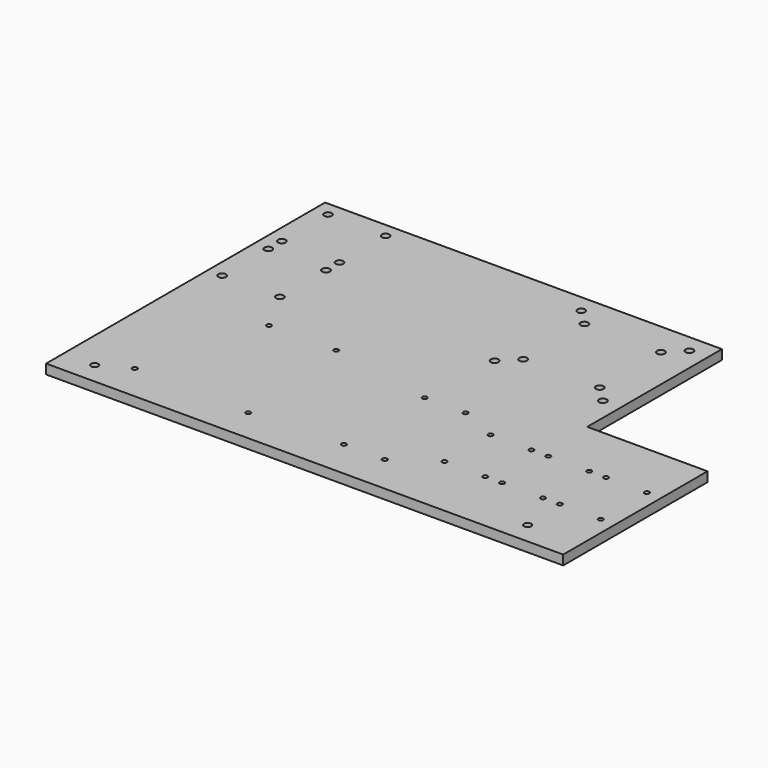
from build123d import *

# Parameters (mm, degrees)
F0_W     = 215
F0_H     = 145
F1_DEPTH = 4
F2_R     = 1.5
F3_DEPTH = 4.001
F4_W     = 50
F4_H     = 70
F5_DEPTH = 4.001
F6_R     = 1.6
F6_R_2   = 1
F7_DEPTH = 4.001


with BuildPart() as f1:
    # F0 (on Top) → F1 (new body)
    with BuildSketch(Plane.XY):
        Rectangle(F0_W, F0_H)
    extrude(amount=F1_DEPTH)

    # F2 (on face) → F3 (cut, through all)
    with BuildSketch(Plane.XY.offset(4)):
        with Locations((-94.5, -63.5)):
            Circle(F2_R)
        with Locations((85.5, -63.5)):
            Circle(F2_R)
    extrude(amount=-F3_DEPTH, mode=Mode.SUBTRACT)

    # F4 (on face) → F5 (cut, through all)
    with BuildSketch(Plane.XY.offset(4)):
        with Locations((82.5, 37.5)):
            Rectangle(F4_W, F4_H)
    extrude(amount=-F5_DEPTH, mode=Mode.SUBTRACT)

    # F6 (on face) → F7 (cut, through all)
    with BuildSketch(Plane.XY.offset(4)):
        with Locations((-101.5, 66.5)):
            Circle(F6_R)
        with Locations((-77.5, 66.5)):
            Circle(F6_R)
        with Locations((-77.5, 42.5)):
            Circle(F6_R)
        with Locations((-101.5, 42.5)):
            Circle(F6_R)
        with Locations((-101.5, 35.5)):
            Circle(F6_R)
        with Locations((-77.5, 35.5)):
            Circle(F6_R)
        with Locations((-77.5, 11.5)):
            Circle(F6_R)
        with Locations((-101.5, 11.5)):
            Circle(F6_R)
        with Locations((101.5, -21.5)):
            Circle(F6_R_2)
        with Locations((84.5, -21.5)):
            Circle(F6_R_2)
        with Locations((101.5, -45.5)):
            Circle(F6_R_2)
        with Locations((84.5, -45.5)):
            Circle(F6_R_2)
        with Locations((77.5, -21.5)):
            Circle(F6_R_2)
        with Locations((60.5, -21.5)):
            Circle(F6_R_2)
        with Locations((77.5, -45.5)):
            Circle(F6_R_2)
        with Locations((60.5, -45.5)):
            Circle(F6_R_2)
        with Locations((53.5, -21.5)):
            Circle(F6_R_2)
        with Locations((36.5, -21.5)):
            Circle(F6_R_2)
        with Locations((53.5, -45.5)):
            Circle(F6_R_2)
        with Locations((36.5, -45.5)):
            Circle(F6_R_2)
        with Locations((43.41, 58.41)):
            Circle(F6_R)
        with Locations((11.59, 58.41)):
            Circle(F6_R)
        with Locations((5, 65)):
            Circle(F6_R)
        with Locations((50, 65)):
            Circle(F6_R)
        with Locations((50, 20)):
            Circle(F6_R)
        with Locations((43.41, 26.59)):
            Circle(F6_R)
        with Locations((11.59, 26.59)):
            Circle(F6_R)
        with Locations((5, 20)):
            Circle(F6_R)
        with Locations((3.5, -14.5)):
            Circle(F6_R_2)
        with Locations((20.5, -14.5)):
            Circle(F6_R_2)
        with Locations((3.5, -56.5)):
            Circle(F6_R_2)
        with Locations((20.5, -56.5)):
            Circle(F6_R_2)
        with Locations((-82.862776, -57.2)):
            Circle(F6_R_2)
        with Locations((-34.662776, -58.5)):
            Circle(F6_R_2)
        with Locations((-39.762776, -6.4)):
            Circle(F6_R_2)
        with Locations((-67.662776, -6.4)):
            Circle(F6_R_2)
    extrude(amount=-F7_DEPTH, mode=Mode.SUBTRACT)


solid = f1.part
